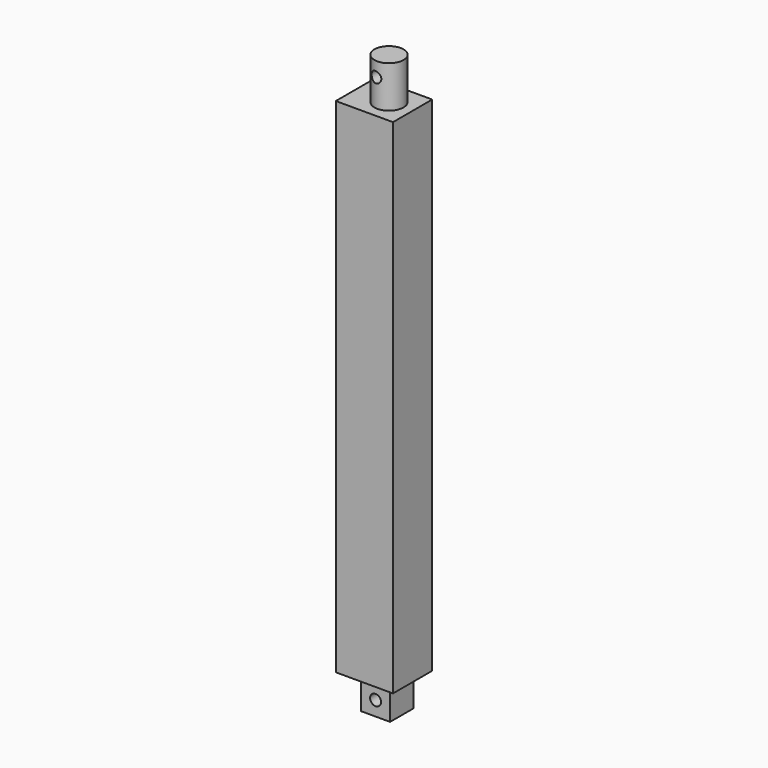
from build123d import *

# Parameters (mm, degrees)
F0_W     = 16
F0_H     = 16
F1_DEPTH = 18
F2_W     = 31.5
F2_H     = 27
F2_W_2   = 16
F2_H_2   = 16
F3_DEPTH = 277
F4_R     = 8
F5_DEPTH = 23
F6_R     = 3
F7_DEPTH = 25


with BuildPart() as f1:
    # F0 (on Top) → F1 (new body)
    with BuildSketch(Plane.XY):
        Rectangle(F0_W, F0_H)
    extrude(amount=F1_DEPTH)

    # F2 (on face) → F3 (join)
    with BuildSketch(Plane.XY.offset(18)):
        with Locations((-1.75, 0)):
            Rectangle(F2_W, F2_H)
        Rectangle(F2_W_2, F2_H_2, mode=Mode.SUBTRACT)
        Rectangle(F2_W_2, F2_H_2)
    extrude(amount=F3_DEPTH)

    # F4 (on face) → F5 (join)
    with BuildSketch(Plane.XY.offset(295)):
        with Locations((1, 0)):
            Circle(F4_R)
    extrude(amount=F5_DEPTH)

    # F6 (on face) → F7 (cut)
    with BuildSketch(Plane(origin=(0, 13.5, 0), x_dir=(-1, 0, 0), z_dir=(0, 1, 0))):
        with Locations((0, 8)):
            Circle(F6_R)
        with Locations((0, 310)):
            Circle(F6_R)
    extrude(amount=-F7_DEPTH, mode=Mode.SUBTRACT)


solid = f1.part
